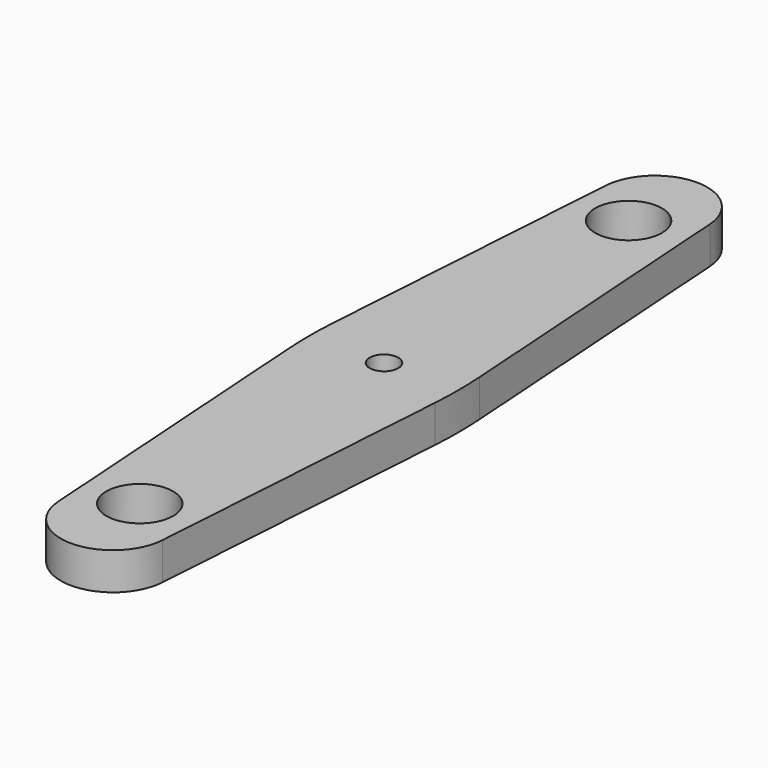
from build123d import *

# Parameters (mm, degrees)
F0_R     = 1.6
F0_R_2   = 0.685
F1_DEPTH = 1.78
F2_R     = 20


with BuildPart() as f1:
    # F0 (on Top) → F1 (new body)
    with BuildSketch(Plane.XY):
        with BuildLine():
            Line((3.6, 0), (2.499373, 16.39281))
            ThreePointArc((2.499373, 16.39281), (0, 18.73), (-2.499373, 16.39281))
            Line((-2.499373, 16.39281), (-3.6, 0))
            Line((-3.6, 0), (-2.499373, -16.39281))
            ThreePointArc((-2.499373, -16.39281), (0, -18.73), (2.499373, -16.39281))
            Line((2.499373, -16.39281), (3.6, 0))
        make_face()
        with Locations((-0.011347, -14.612108)):
            Circle(F0_R, mode=Mode.SUBTRACT)
        with Locations((-0.059, 14.718276)):
            Circle(F0_R, mode=Mode.SUBTRACT)
        Circle(F0_R_2, mode=Mode.SUBTRACT)
    extrude(amount=F1_DEPTH)

    # F2
    f2_edges = [f1.edges().sort_by_distance(p)[0] for p in [
        (3.6, 0, 0.89),
        (-3.6, 0, 0.89),
    ]]
    fillet(f2_edges, radius=F2_R)


solid = f1.part
